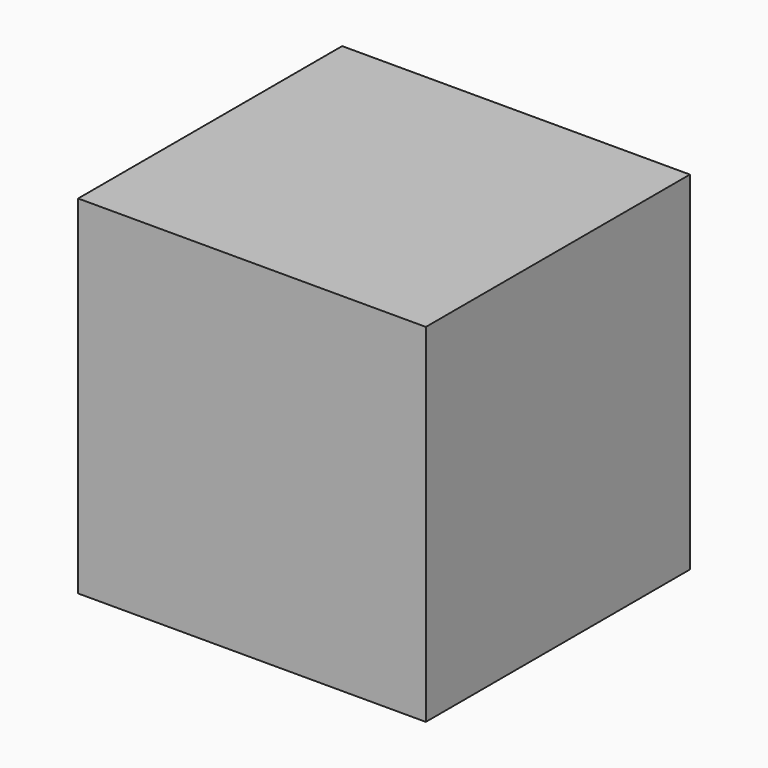
from build123d import *

# Parameters (mm, degrees)
F0_W     = 43.2
F0_H     = 43.2
F1_DEPTH = 41
F2_D     = 3
F2_DEPTH = 15
F2_TIP   = 0.9012909285


with BuildPart() as f1:
    # F0 (on Front) → F1 (new body)
    with BuildSketch(Plane.XZ):
        with Locations((21.6, -21.6)):
            Rectangle(F0_W, F0_H)
    extrude(amount=F1_DEPTH)

    # F2
    with Locations(Plane(origin=(0, 0, 0), x_dir=(1, 0, 0), z_dir=(0, 1, 0))):
        with Locations((37.1, 6.1), (6.1, 6.1), (6.1, 37.1), (37.1, 37.1)):
            Hole(F2_D / 2, depth=F2_DEPTH)
            with Locations((0, 0, -(F2_DEPTH + F2_TIP / 2))):  # 118° drill point
                Cone(0, F2_D / 2, F2_TIP, mode=Mode.SUBTRACT)


solid = f1.part
